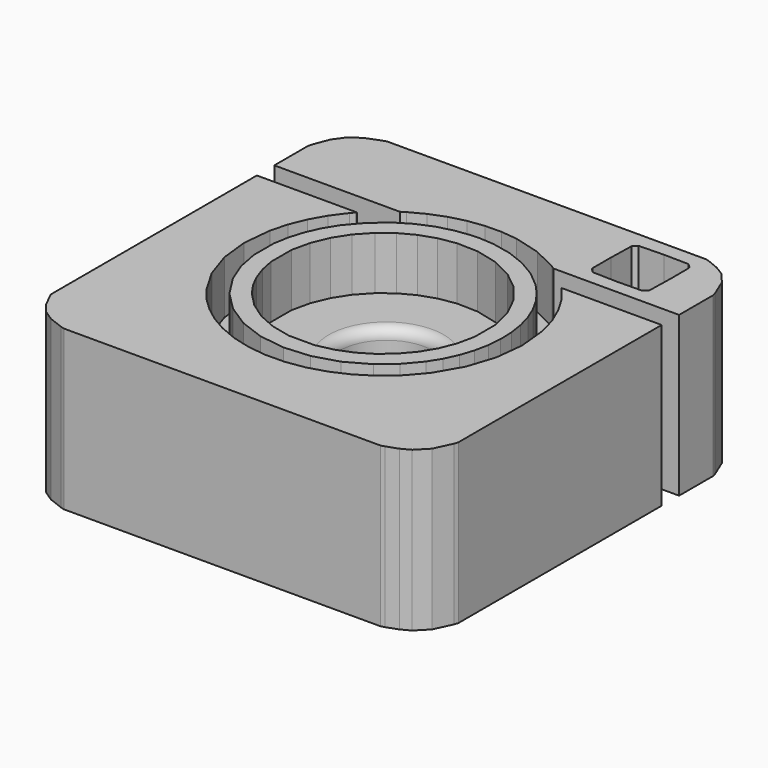
from build123d import *

# Parameters (mm, degrees)
BOX006_W         = 12
BOX006_H         = 4
BOX006_DEPTH     = 6
BOX007_W         = 4
BOX007_H         = 4
BOX007_DEPTH     = 6
BOX008_W         = 4
BOX008_H         = 4
BOX008_DEPTH     = 6
FILLET004_R      = 2
FILLET005_R      = 1
EXTRUDE001_DEPTH = 15
CYLINDER_R       = 4.4
CYLINDER_DEPTH   = 11
EXTRUDE002_DEPTH = 15
EXTRUDE003_DEPTH = 15
BOX_W            = 34
BOX_H            = 34
BOX_DEPTH        = 10
EXTRUDE_DEPTH    = 15
FILLET_R         = 1


with BuildPart() as cubo006:
    # Box006 → Box006 (new body)
    with BuildSketch(Plane(origin=(69, 249, 0), x_dir=(1, 0, 0), z_dir=(0, 0, 1))):
        with Locations((6, 2)):
            Rectangle(BOX006_W, BOX006_H)
    extrude(amount=BOX006_DEPTH)


with BuildPart() as cubo007:
    # Box007 → Box007 (new body)
    with BuildSketch(Plane(origin=(69, 253, 0), x_dir=(1, 0, 0), z_dir=(0, 0, 1))):
        with Locations((2, 2)):
            Rectangle(BOX007_W, BOX007_H)
    extrude(amount=BOX007_DEPTH)


with BuildPart() as fillet005:
    # Box008 → Box008 (new body)
    with BuildSketch(Plane(origin=(77, 253, 0), x_dir=(1, 0, 0), z_dir=(0, 0, 1))):
        with Locations((2, 2)):
            Rectangle(BOX008_W, BOX008_H)
    extrude(amount=BOX008_DEPTH)

    # Fusion019: union Cubo006, Cubo007
    add(cubo006.part)
    add(cubo007.part)


with BuildPart() as fillet005_1:
    # Fusion019 placement: moved
    add(fillet005.part.moved(Location((12, 5, 4))))

    # Fillet004
    fillet004_edges = [fillet005_1.edges().sort_by_distance(p)[0] for p in [
        (93, 262, 7),
        (81, 262, 7),
        (93, 254, 7),
        (81, 254, 7),
    ]]
    fillet(fillet004_edges, radius=FILLET004_R)

    # Fillet005
    fillet005_edges = [fillet005_1.edges().sort_by_distance(p)[0] for p in [
        (89, 262, 7),
        (89, 258, 7),
        (85, 258, 7),
        (85, 262, 7),
    ]]
    fillet(fillet005_edges, radius=FILLET005_R)


with BuildPart() as extrude001:
    # Fusion001 → Extrude001 (new body)
    with BuildSketch(Plane(origin=(112.246385, 256.340737, 0), x_dir=(0, 1, 0), z_dir=(0, 0, 1))):
        Polygon((2.71825, -2.337695), (2.387401, -2.695365), (2.265202, -2.760965), (0.035701, -2.768965), (-2.342814, -2.712365), (-2.72136, -2.301035), (-2.75711, 0.014895), (-2.69447, 2.351675), (-2.363622, 2.697465), (-2.223537, 2.768965), (-0.032792, 2.768965), (2.318908, 2.709365), (2.694469, 2.351705), (2.757109, -0.011915), (2.718299, -2.336785), align=None)
    extrude(amount=EXTRUDE001_DEPTH)


with BuildPart() as fusion018:
    # Cylinder → Cylinder (new body)
    with BuildSketch(Plane(origin=(100.35, 241.25, 0), x_dir=(1, 0, 0), z_dir=(0, 0, 1))):
        Circle(CYLINDER_R)
    extrude(amount=CYLINDER_DEPTH)

    # Fusion018: union Extrude001
    add(extrude001.part)


with BuildPart() as extrude002:
    # Fusion002 → Extrude002 (new body)
    with BuildSketch(Plane(origin=(99.974363, 241.378252, 0), x_dir=(0, 1, 0), z_dir=(0, 0, 1))):
        Polygon((11.285467, 0.637137), (11.094628, 2.193385), (10.686377, 3.713865), (10.072458, 5.163927), (9.264615, 6.508923), (7.982589, 8.016732), (6.474769, 9.298763), (5.263852, 10.037676), (3.963237, 10.618429), (2.590527, 11.034875), (1.163327, 11.280867), (-1.17943, 11.280867), (-3.156315, 10.893389), (-5.030368, 10.157173), (-7.090715, 8.841988), (-8.809037, 7.128889), (-10.123859, 5.093883), (-10.973705, 2.812978), (-11.312328, 0.376943), (-11.127576, -2.044286), (-10.435936, -4.363244), (-9.253892, -6.492467), (-8.000917, -7.966746), (-6.526642, -9.219707), (-5.3832, -9.930371), (-4.171542, -10.493915), (-2.906721, -10.908243), (-1.603793, -11.17126), (-0.277812, -11.280867), (1.056168, -11.234972), (2.383092, -11.031478), (3.687906, -10.668287), (4.90008, -10.168517), (6.039602, -9.533788), (7.103121, -8.76661), (8.087284, -7.869497), (9.25987, -6.459952), (10.178176, -4.900075), (10.832699, -3.209423), (11.213938, -1.407556), (11.312328, 0.115535), (11.285548, 0.637137), align=None)
        Polygon((9.574606, -1.225746), (9.056396, -3.30937), (8.124908, -5.18845), (6.809481, -6.81716), (5.139458, -8.149676), (3.286267, -9.0528), (1.213997, -9.562487), (-1.2301, -9.562487), (-2.818624, -9.215013), (-4.283358, -8.638125), (-5.622348, -7.832662), (-6.833637, -6.799467), (-7.867676, -5.588918), (-8.672301, -4.250675), (-9.248349, -2.784455), (-9.596656, -1.189977), (-9.596656, 1.239221), (-9.166802, 3.090545), (-8.426774, 4.769741), (-7.382723, 6.265631), (-6.040798, 7.567038), (-4.965823, 8.31913), (-3.807577, 8.909428), (-2.561033, 9.34045), (-1.221158, 9.614711), (1.205054, 9.614711), (2.911083, 9.22942), (4.480747, 8.580068), (5.896163, 7.675316), (7.13945, 6.523823), (8.10973, 5.264103), (8.850315, 3.88115), (9.358414, 2.381395), (9.631234, 0.771263), (9.574604, -1.225746), align=None, mode=Mode.SUBTRACT)
    extrude(amount=EXTRUDE002_DEPTH)


with BuildPart() as extrude003:
    # Fusion003 → Extrude003 (new body)
    with BuildSketch(Plane(origin=(100.029789, 236.281218, 0), x_dir=(0, 1, 0), z_dir=(0, 0, 1))):
        Polygon((1.844965, 19.07584), (-10.277167, 19.07584), (-10.548404, 18.968542), (-11.778643, 18.345595), (-12.682511, 17.624292), (-13.342718, 16.632116), (-13.859852, 15.284513), (-13.964143, 14.926837), (-13.964143, -1.1e-05), (-13.964143, -14.926861), (-13.859852, -15.284521), (-13.493237, -16.31247), (-13.037203, -17.168271), (-11.98468, -18.196954), (-10.348696, -18.959611), (-9.996989, -19.075851), (1.982075, -19.075851), (13.964112, -19.075851), (13.964112, -14.363521), (13.964112, -9.651191), (13.83893, -9.761471), (12.470458, -10.82741), (11.117638, -11.627331), (9.44924, -12.355342), (7.731663, -12.828511), (5.003661, -13.098168), (2.32484, -12.80393), (-0.235502, -11.960884), (-2.608069, -10.584121), (-4.147544, -9.259247), (-5.472427, -7.719761), (-6.44201, -6.171549), (-7.178824, -4.531824), (-7.680916, -2.824754), (-7.946328, -1.074513), (-7.973107, 0.694731), (-7.759293, 2.458805), (-7.302934, 4.193538), (-6.602073, 5.874761), (-5.822507, 7.214584), (-4.878911, 8.467507), (-3.798396, 9.601393), (-2.608069, 10.584108), (-0.236947, 11.959656), (2.322232, 12.803166), (4.998215, 13.09899), (7.719748, 12.831478), (9.297231, 12.403994), (10.814357, 11.781188), (12.23648, 10.980106), (13.52895, 10.017794), (13.877673, 9.722716), (13.964143, 9.654166), (13.964143, 14.363519), (13.964143, 19.075851), align=None)
    extrude(amount=EXTRUDE003_DEPTH)


with BuildPart() as cubo:
    # Box → Box (new body)
    with BuildSketch(Plane(origin=(83, 224, 0), x_dir=(1, 0, 0), z_dir=(0, 0, 1))):
        with Locations((17, 17)):
            Rectangle(BOX_W, BOX_H)
    extrude(amount=BOX_DEPTH)


with BuildPart() as cut001:
    # Fusion → Extrude (new body)
    with BuildSketch(Plane(origin=(100.029826, 256.385381, 0), x_dir=(0, 1, 0), z_dir=(0, 0, 1))):
        Polygon((3.979115, 15.296476), (3.427327, 16.707791), (2.71236, 17.707783), (1.70789, 18.422376), (0.292105, 18.971553), (-0.065571, 19.075845), (-2.074506, 19.075845), (-4.08343, 19.075845), (-4.08343, 13.16233), (-4.08343, 7.251801), (-3.827094, 6.837498), (-3.094613, 5.452635), (-2.518611, 3.994004), (-2.13444, 2.490753), (-1.931061, 0.945588), (-1.91043, -0.614105), (-2.074506, -2.160944), (-2.751473, -4.645642), (-3.904592, -6.962684), (-4.08343, -7.248824), (-4.08343, -13.162345), (-4.08343, -19.075845), (-2.074506, -19.075845), (-0.065571, -19.075845), (0.292105, -18.971554), (1.944104, -18.290491), (3.019355, -17.367994), (3.530901, -16.530079), (3.94633, -15.520025), (4.08343, -15.114674), (4.08343, -0.083494), (4.08023, 14.947681), align=None)
    extrude(amount=EXTRUDE_DEPTH)

    # Fusion006: union Extrude002, Extrude003, Cubo
    add(extrude002.part)
    add(extrude003.part)
    add(cubo.part)

    # Cut: cut Fusion018
    add(fusion018.part, mode=Mode.SUBTRACT)

    # Fillet
    fillet_edges = [cut001.edges().sort_by_distance(p)[0] for p in [
        (95.95, 241.25, 10),
    ]]
    fillet(fillet_edges, radius=FILLET_R)

    # Cut001: cut Fillet005
    add(fillet005_1.part, mode=Mode.SUBTRACT)


solid = cut001.part
